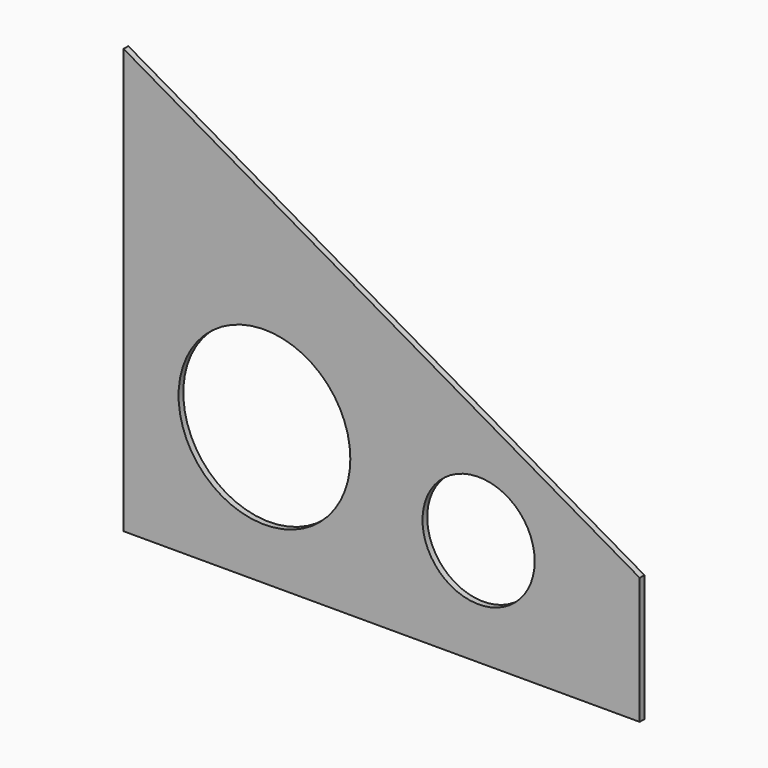
from build123d import *

# Parameters (mm, degrees)
F0_R     = 58.232133
F0_R_2   = 38.032846
F1_DEPTH = 4


with BuildPart() as f1:
    # F0 (on Front) → F1 (new body)
    with BuildSketch(Plane.XZ):
        Polygon((0, 288), (0, 0), (350, 0), (350, 86), align=None)
        with Locations((95.537826, 93.233816)):
            Circle(F0_R, mode=Mode.SUBTRACT)
        with Locations((240.736708, 72.674997)):
            Circle(F0_R_2, mode=Mode.SUBTRACT)
    extrude(amount=F1_DEPTH)


solid = f1.part
